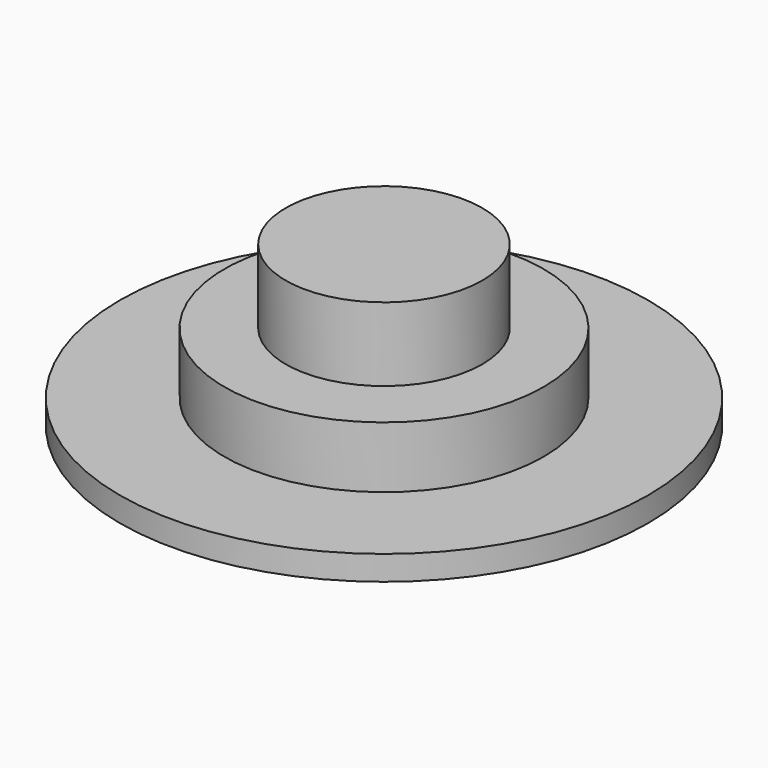
from build123d import *

# Parameters (mm, degrees)
F0_R     = 10.75
F0_R_2   = 6.5
F0_R_3   = 4
F1_DEPTH = 1
F2_DEPTH = 3.5
F3_DEPTH = 6.5


with BuildPart() as f1:
    # F0 (on Top) → F1 (new body)
    with BuildSketch(Plane.XY):
        Circle(F0_R)
        Circle(F0_R_2, mode=Mode.SUBTRACT)
        Circle(F0_R_2)
        Circle(F0_R_3, mode=Mode.SUBTRACT)
        Circle(F0_R_3)
    extrude(amount=F1_DEPTH)

    # F0 (on Top) → F2 (join)
    with BuildSketch(Plane.XY):
        Circle(F0_R_2)
        Circle(F0_R_3, mode=Mode.SUBTRACT)
        Circle(F0_R_3)
    extrude(amount=F2_DEPTH)

    # F0 (on Top) → F3 (join)
    with BuildSketch(Plane.XY):
        Circle(F0_R_3)
    extrude(amount=F3_DEPTH)


solid = f1.part
